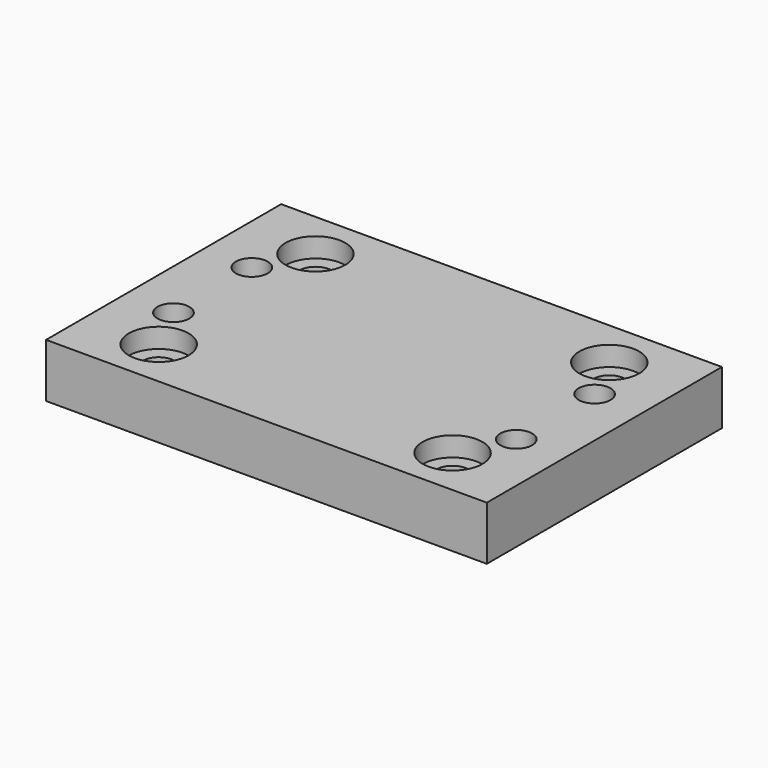
from build123d import *

# Parameters (mm, degrees)
SKETCH_W        = 90
SKETCH_H        = 60
SKETCH_R        = 3.25
PAD_DEPTH       = 11
SKETCH001_R     = 6.1
POCKET_DEPTH    = 4
POCKET001_DEPTH = 5.25


with BuildPart() as part:
    # Sketch → Pad (new body)
    with BuildSketch(Plane.XY):
        with Locations((45, 30)):
            Rectangle(SKETCH_W, SKETCH_H)
        with Locations((10, 40)):
            Circle(SKETCH_R, mode=Mode.SUBTRACT)
        with Locations((80, 40)):
            Circle(SKETCH_R, mode=Mode.SUBTRACT)
        with Locations((10, 20)):
            Circle(SKETCH_R, mode=Mode.SUBTRACT)
        with Locations((80, 20)):
            Circle(SKETCH_R, mode=Mode.SUBTRACT)
        with Locations((15, 50)):
            Circle(SKETCH_R, mode=Mode.SUBTRACT)
        with Locations((75, 50)):
            Circle(SKETCH_R, mode=Mode.SUBTRACT)
        with Locations((75, 10)):
            Circle(SKETCH_R, mode=Mode.SUBTRACT)
        with Locations((15, 10)):
            Circle(SKETCH_R, mode=Mode.SUBTRACT)
    extrude(amount=PAD_DEPTH)

    # Sketch001 (on Face14 of Pad) → Pocket (cut)
    with BuildSketch(Plane.XY.offset(11)):
        with Locations((15, 50)):
            Circle(SKETCH001_R)
        with Locations((75, 50)):
            Circle(SKETCH001_R)
        with Locations((75, 10)):
            Circle(SKETCH001_R)
        with Locations((15, 10)):
            Circle(SKETCH001_R)
    extrude(amount=-POCKET_DEPTH, mode=Mode.SUBTRACT)

    # Sketch002 (on Face4 of Pocket) → Pocket001 (cut)
    with BuildSketch(Plane(origin=(0, 0, 0), x_dir=(1, 0, 0), z_dir=(0, 0, -1))):
        Polygon((15.1, -17.055514), (10, -14.111027), (4.9, -17.055514), (4.9, -22.944486), (10, -25.888973), (15.1, -22.944486), align=None)
        Polygon((80, -14.111027), (74.9, -17.055514), (74.9, -22.944486), (80, -25.888973), (85.1, -22.944486), (85.1, -17.055514), align=None)
        Polygon((10, -34.111027), (4.9, -37.055514), (4.9, -42.944486), (10, -45.888973), (15.1, -42.944486), (15.1, -37.055514), align=None)
        Polygon((80, -34.111027), (74.9, -37.055514), (74.9, -42.944486), (80, -45.888973), (85.1, -42.944486), (85.1, -37.055514), align=None)
    extrude(amount=-POCKET001_DEPTH, mode=Mode.SUBTRACT)


solid = part.part
